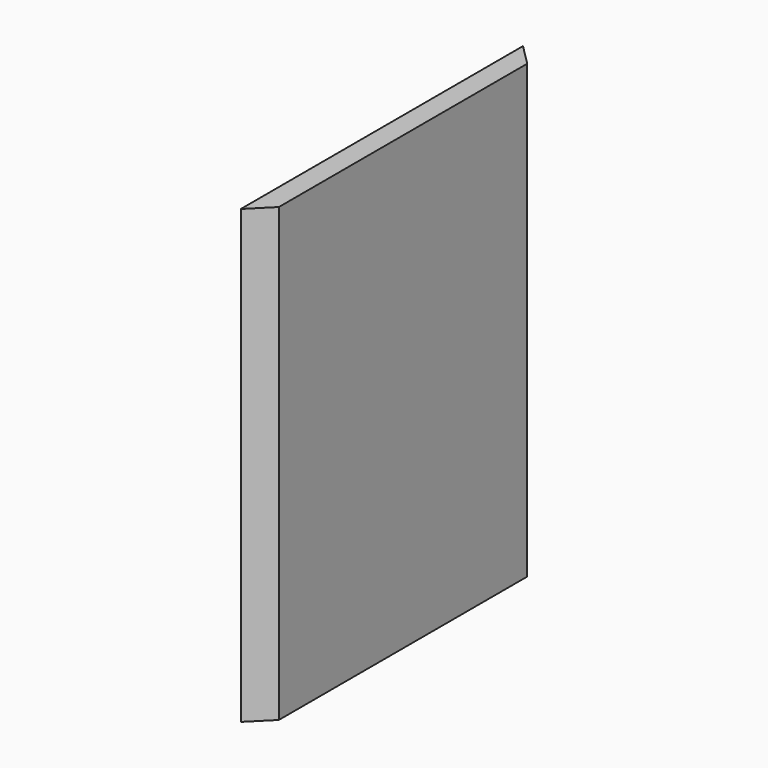
from build123d import *

# Parameters (mm, degrees)
F0_W     = 114.3
F0_H     = 1676.4
F1_DEPTH = 2438.4


with BuildPart() as f1:
    # F0 (on Top) → F1 (new body)
    with BuildSketch(Plane.XY):
        Polygon((-57.15, -952.5), (57.15, -838.2), (-57.15, -838.2), align=None)
        Rectangle(F0_W, F0_H)
        Polygon((-57.15, 838.2), (57.15, 838.2), (-57.15, 952.5), align=None)
    extrude(amount=F1_DEPTH)


solid = f1.part
